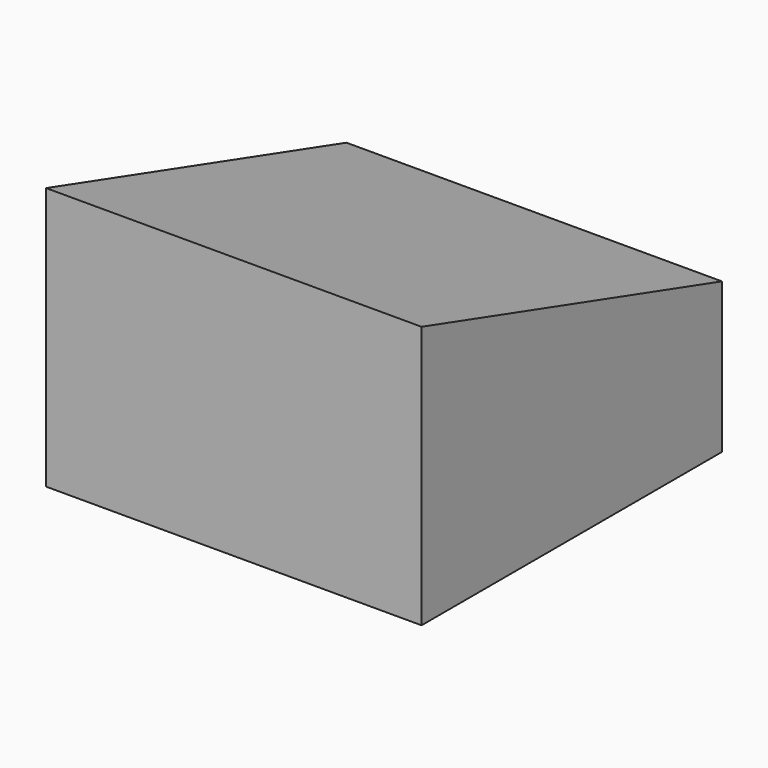
from build123d import *

# Parameters (mm, degrees)
F1_W     = 100
F1_H     = 100
F2_DEPTH = 100
F4_DEPTH = 154


with BuildPart() as f2:
    # F1 (on Top) → F2 (new body)
    with BuildSketch(Plane.XY):
        with Locations((-250, 250)):
            Rectangle(F1_W, F1_H)
    extrude(amount=F2_DEPTH)

    # F3 (on face) → F4 (cut)
    with BuildSketch(Plane(origin=(-300, 0, 0), x_dir=(0, -1, 0), z_dir=(-1, 0, 0))):
        Polygon((-300, 100), (-300, 40), (-200, 70), (-200, 100), align=None)
    extrude(amount=-F4_DEPTH, mode=Mode.SUBTRACT)


solid = f2.part
